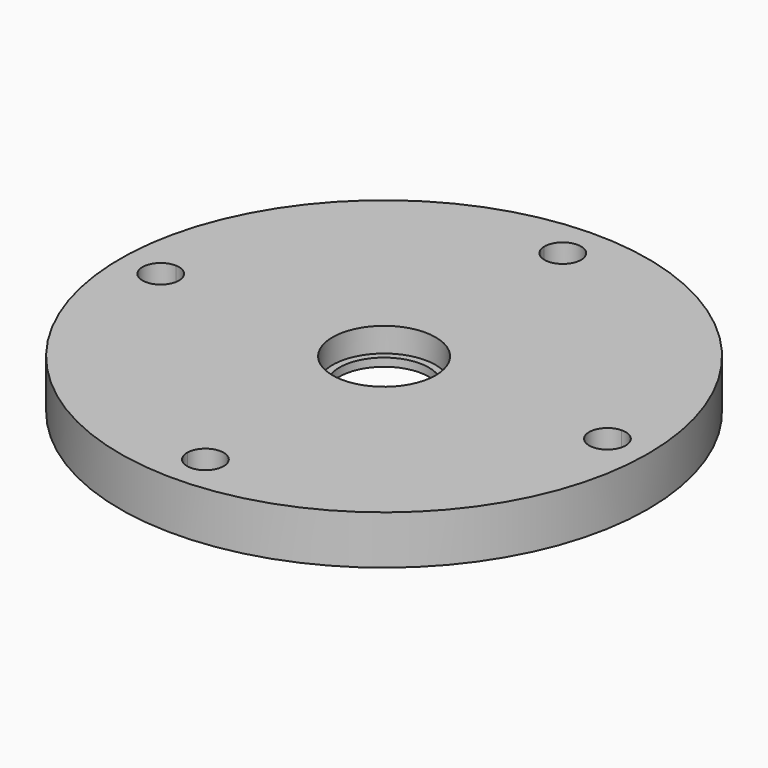
from build123d import *

# Parameters (mm, degrees)
F3_DEPTH = 12


with BuildPart() as f1:
    # F0 (on Front) → F1 (revolve)
    with BuildSketch(Plane.XZ):
        Polygon((35, 4), (35, 0), (65, 0), (65, 12), (12.7, 12), (12.7, 6), (11, 6), (11, 4), align=None)
    revolve(axis=Axis((0, 0, 8.603251), (0, 0, 1)))

    # F2 (on face) → F3 (cut)
    with BuildSketch(Plane.XY.offset(12)):
        with BuildLine():
            ThreePointArc((-4.496233, 54.815909), (0, 50.5), (4.496233, 54.815909))
            ThreePointArc((4.496233, 54.815909), (4.499058, 54.907935), (4.5, 55))
            ThreePointArc((4.5, 55), (-0.092065, 59.499058), (-4.496233, 54.815909))
        make_face()
        with BuildLine():
            ThreePointArc((-50.5, 0), (-51.753586, 3.116215), (-54.815909, 4.496233))
            ThreePointArc((-54.815909, 4.496233), (-59.5, 0), (-54.815909, -4.496233))
            ThreePointArc((-54.815909, -4.496233), (-51.753586, -3.116215), (-50.5, 0))
        make_face()
        with BuildLine():
            ThreePointArc((4.5, -55), (4.499058, -54.907935), (4.496233, -54.815909))
            ThreePointArc((4.496233, -54.815909), (0, -50.5), (-4.496233, -54.815909))
            ThreePointArc((-4.496233, -54.815909), (-0.092065, -59.499058), (4.5, -55))
        make_face()
        with BuildLine():
            ThreePointArc((59.5, 0), (58.116215, 3.246414), (54.815909, 4.496233))
            ThreePointArc((54.815909, 4.496233), (50.5, 0), (54.815909, -4.496233))
            ThreePointArc((54.815909, -4.496233), (58.116215, -3.246414), (59.5, 0))
        make_face()
    extrude(amount=-F3_DEPTH, mode=Mode.SUBTRACT)


solid = f1.part
